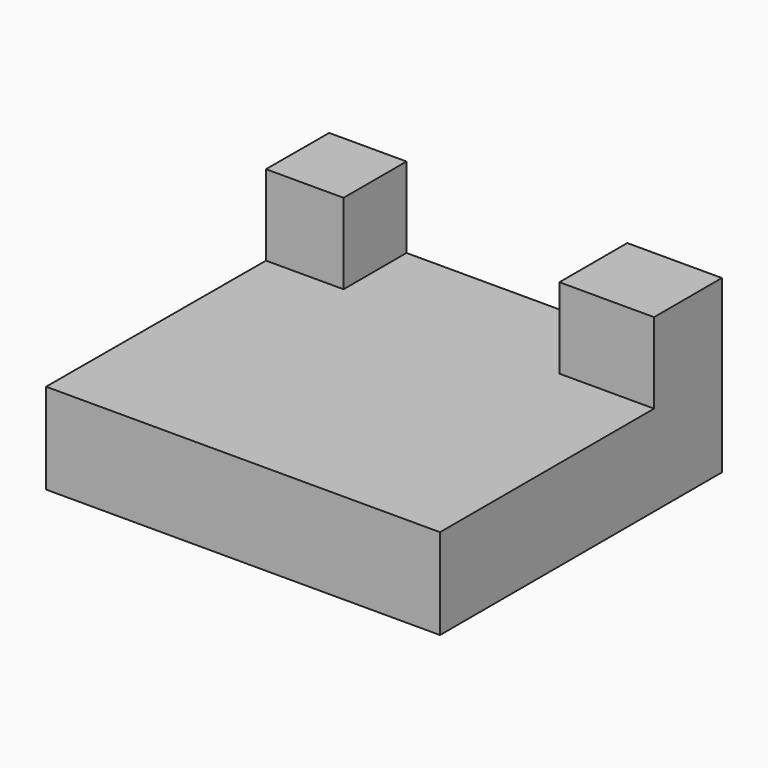
from build123d import *

# Parameters (mm, degrees)
F1_DEPTH = 22.86
F2_W     = 23.88052
F2_H     = 21.403259
F3_DEPTH = 20.32
F5_DEPTH = 20.32


with BuildPart() as f1:
    # F0 (on Top) → F1 (new body)
    with BuildSketch(Plane.XY):
        Polygon((-45.509029, 47.247883), (-45.808434, -41.675467), (53.594097, -41.675467), (53.594097, 47.247883), align=None)
    extrude(amount=F1_DEPTH)

    # F2 (on face) → F3 (join)
    with BuildSketch(Plane.XY.offset(22.86)):
        with Locations((41.653837, 36.546253)):
            Rectangle(F2_W, F2_H)
    extrude(amount=F3_DEPTH)

    # F4 (on face) → F5 (join)
    with BuildSketch(Plane.XY.offset(22.86)):
        Polygon((-25.999382, 27.392207), (-25.999382, 47.247883), (-45.509029, 47.247883), (-45.575883, 27.392207), align=None)
    extrude(amount=F5_DEPTH)


solid = f1.part
